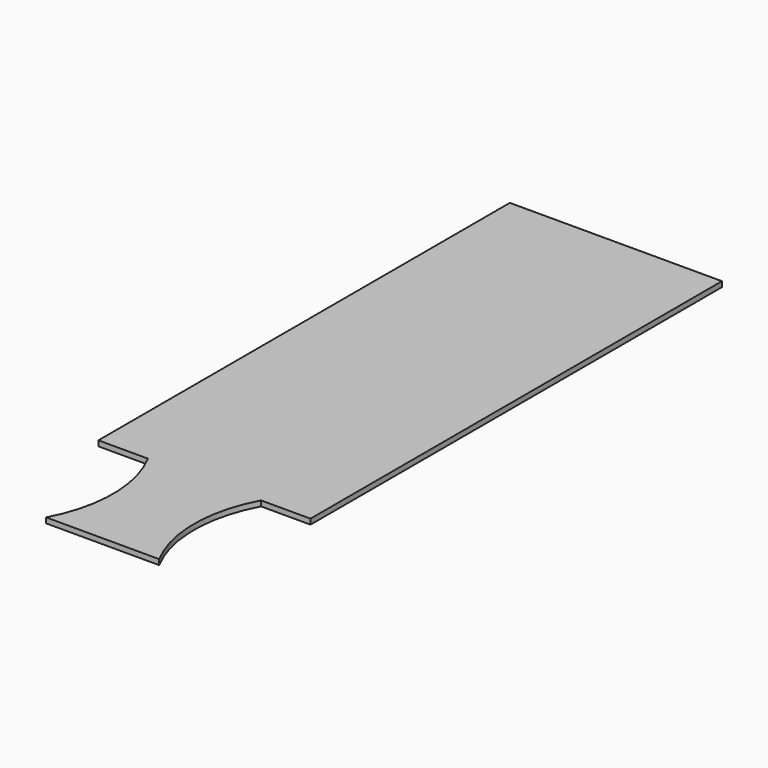
from build123d import *

# Parameters (mm, degrees)
F1_DEPTH = 19.05


with BuildPart() as f1:
    # F0 (on Top) → F1 (new body)
    with BuildSketch(Plane.XY):
        with BuildLine():
            ThreePointArc((-208.685229, -1463.354337), (-151.108523, -1691.954337), (-208.685229, -1920.554337))
            Line((-208.685229, -1920.554337), (197.714771, -1920.554337))
            ThreePointArc((197.714771, -1920.554337), (140.138064, -1691.954337), (197.714771, -1463.354337))
            Line((197.714771, -1463.354337), (375.514771, -1463.354337))
            Line((375.514771, -1463.354337), (375.514771, 384.495663))
            Line((375.514771, 384.495663), (-386.485229, 384.495663))
            Line((-386.485229, 384.495663), (-386.485229, -1463.354337))
            Line((-386.485229, -1463.354337), (-208.685229, -1463.354337))
        make_face()
    extrude(amount=F1_DEPTH)


solid = f1.part
